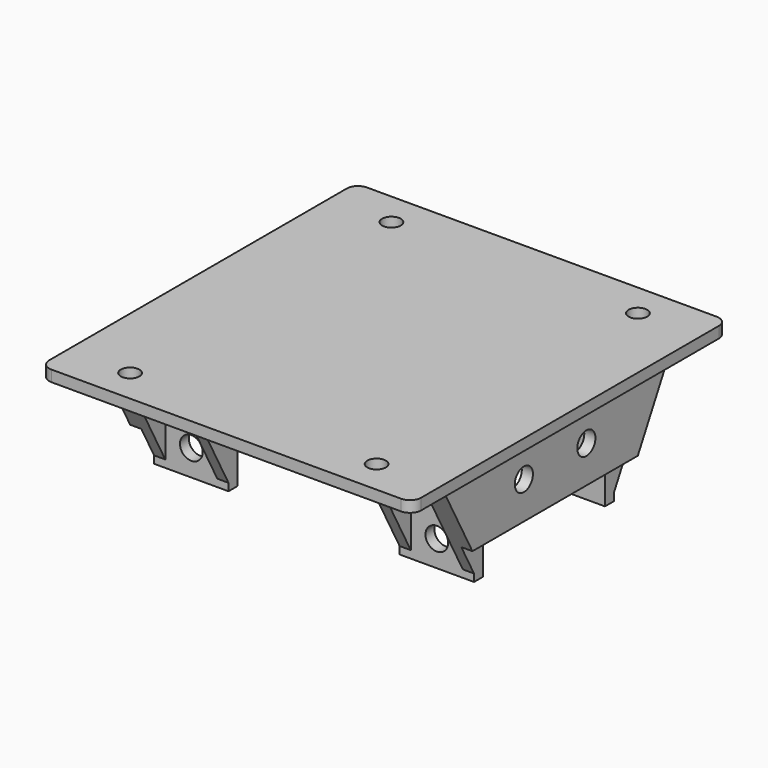
from build123d import *

# Parameters (mm, degrees)
F0_W           = 100
F0_H           = 106
F0_R           = 2.5
F1_DEPTH       = 3
F2_R           = 3
F4_DEPTH       = 28
F5_DEPTH       = 20
F3_W           = 3
F3_H           = 15
F6_DEPTH       = 28
F7_DEPTH       = 15
F7_DEPTH_BACK  = 62
F9_DEPTH       = 20
F9_DEPTH_BACK  = 72
F11_DEPTH      = 20
F11_DEPTH_BACK = 72
F12_R          = 3.05
F13_R          = 3.05
F14_DEPTH      = 47
F15_R          = 3.05
F16_DEPTH      = 3
F16_DEPTH_BACK = 89
F17_DEPTH      = 2


with BuildPart() as f1:
    # F0 (on Top) → F1 (new body)
    with BuildSketch(Plane.XY):
        Rectangle(F0_W, F0_H)
        with Locations((-33.1323798252, -43.9004032683)):
            Circle(F0_R, mode=Mode.SUBTRACT)
        with Locations((33.1323798252, -43.9004032683)):
            Circle(F0_R, mode=Mode.SUBTRACT)
        with Locations((-33.1323798252, 43.9004032683)):
            Circle(F0_R, mode=Mode.SUBTRACT)
        with Locations((33.1323798252, 43.9004032683)):
            Circle(F0_R, mode=Mode.SUBTRACT)
    extrude(amount=F1_DEPTH)

    # F2
    f2_edges = [f1.edges().sort_by_distance(p)[0] for p in [
        (-50, -53, 1.5),
        (-50, 53, 1.5),
        (50, 53, 1.5),
        (50, -53, 1.5),
    ]]
    fillet(f2_edges, radius=F2_R)

    # F3 (on Top) → F4 (join)
    with BuildSketch(Plane.XY):
        Polygon((-23, -20.5), (-43, -20.5), (-43, -23.5), (-40, -23.5), (-26, -23.5), (-23, -23.5), align=None)
        Polygon((-43, 23.5), (-43, 20.5), (-23, 20.5), (-23, 23.5), (-26, 23.5), (-40, 23.5), align=None)
        Polygon((23, 20.5), (43, 20.5), (43, 23.5), (40, 23.5), (26, 23.5), (23, 23.5), align=None)
        Polygon((43, -23.5), (43, -20.5), (23, -20.5), (23, -23.5), (26, -23.5), (40, -23.5), align=None)
    extrude(amount=-F4_DEPTH)

    # F3 (on Top) → F5 (join)
    with BuildSketch(Plane.XY):
        Polygon((43, 20.5), (43, -20.5), (43, -23.5), (46, -23.5), (46, 23.5), (43, 23.5), align=None)
        Polygon((-43, -20.5), (-43, 20.5), (-43, 23.5), (-46, 23.5), (-46, -23.5), (-43, -23.5), align=None)
    extrude(amount=-F5_DEPTH)

    # F3 (on Top) → F6 (join)
    with BuildSketch(Plane.XY):
        with Locations((-41.5, 31)):
            Rectangle(F3_W, F3_H)
        with Locations((-24.5, 31)):
            Rectangle(F3_W, F3_H)
        with Locations((24.5, 31)):
            Rectangle(F3_W, F3_H)
        with Locations((41.5, 31)):
            Rectangle(F3_W, F3_H)
        with Locations((-41.5, -31)):
            Rectangle(F3_W, F3_H)
        with Locations((-24.5, -31)):
            Rectangle(F3_W, F3_H)
        with Locations((24.5, -31)):
            Rectangle(F3_W, F3_H)
        with Locations((41.5, -31)):
            Rectangle(F3_W, F3_H)
    extrude(amount=-F6_DEPTH)

    # F7 (add, two sides): faces of the model
    f7_faces = [f1.faces().sort_by_distance(p)[0] for p in [
        (-44.5, -23.5, -10),
        (44.5, -23.5, -10),
    ]]
    extrude(f7_faces, amount=F7_DEPTH)
    extrude(f7_faces, amount=-F7_DEPTH_BACK)

    # F8 (on face) → F9 (cut, two sides)
    with BuildSketch(Plane(origin=(-26, 0, 0), x_dir=(0, -1, 0), z_dir=(-1, 0, 0))) as f9_sk:
        Polygon((-23.5, -28), (-38.5, 0), (-38.5, -28), align=None)
    extrude(amount=F9_DEPTH, mode=Mode.SUBTRACT)
    extrude(f9_sk.sketch, amount=-F9_DEPTH_BACK, mode=Mode.SUBTRACT)

    # F10 (on face) → F11 (cut, two sides)
    with BuildSketch(Plane(origin=(-26, 0, 0), x_dir=(0, -1, 0), z_dir=(-1, 0, 0))) as f11_sk:
        Polygon((38.5, 0), (23.5, -28), (38.5, -28), align=None)
    extrude(amount=F11_DEPTH, mode=Mode.SUBTRACT)
    extrude(f11_sk.sketch, amount=-F11_DEPTH_BACK, mode=Mode.SUBTRACT)

    # F12 (on face) + F13 (on face) → F14 (cut, through all)
    with BuildSketch(Plane(origin=(0, 23.5, 0), x_dir=(-1, 0, 0), z_dir=(0, 1, 0))):
        with Locations((33, -23)):
            Circle(F12_R)
        with Locations((33, -9)):
            Circle(F12_R)
    with BuildSketch(Plane(origin=(0, 23.5, 0), x_dir=(-1, 0, 0), z_dir=(0, 1, 0))):
        with Locations((-33, -9)):
            Circle(F13_R)
        with Locations((-33, -23)):
            Circle(F13_R)
    extrude(amount=-F14_DEPTH, mode=Mode.SUBTRACT)

    # F15 (on face) → F16 (cut, two sides)
    with BuildSketch(Plane.YZ.offset(-43)) as f16_sk:
        with Locations((10.5, -10)):
            Circle(F15_R)
        with Locations((-10.5, -10)):
            Circle(F15_R)
    extrude(amount=-F16_DEPTH, mode=Mode.SUBTRACT)
    extrude(f16_sk.sketch, amount=F16_DEPTH_BACK, mode=Mode.SUBTRACT)

    # F17 (add): faces of the model
    f17_faces = [f1.faces().sort_by_distance(p)[0] for p in [
        (33, -22, -28),
        (-33, -22, -28),
        (-33, 22, -28),
        (33, 22, -28),
    ]]
    extrude(f17_faces, amount=F17_DEPTH)


solid = f1.part
